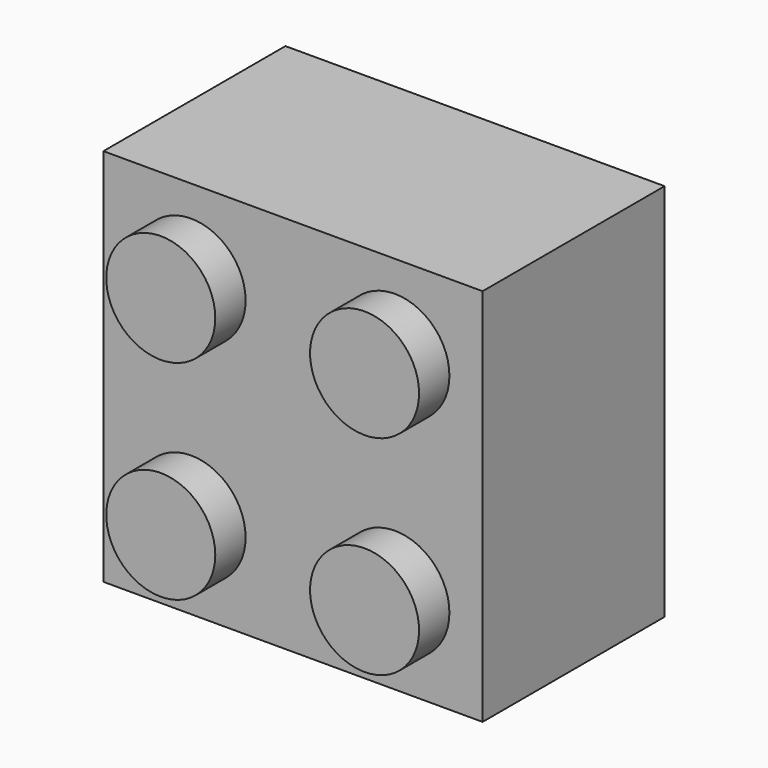
from build123d import *

# Parameters (mm, degrees)
F0_W     = 16
F0_H     = 16
F0_W_2   = 12.8
F0_H_2   = 12.8
F1_DEPTH = 9.6
F2_DEPTH = 8.1
F3_R     = 1.6
F4_DEPTH = 1.6
F5_R     = 2.3
F6_DEPTH = 1.6
F7_R     = 3.2
F7_R_2   = 2.4
F8_DEPTH = 9.6


with BuildPart() as f1:
    # F0 (on Front) → F1 (new body)
    with BuildSketch(Plane.XZ):
        Rectangle(F0_W, F0_H)
        Rectangle(F0_W_2, F0_H_2, mode=Mode.SUBTRACT)
        Rectangle(F0_W_2, F0_H_2)
    extrude(amount=F1_DEPTH)

    # F0 (on Front) → F2 (cut)
    with BuildSketch(Plane.XZ):
        Rectangle(F0_W_2, F0_H_2)
    extrude(amount=F2_DEPTH, mode=Mode.SUBTRACT)

    # F3 (on face) → F4 (cut)
    with BuildSketch(Plane.XZ.offset(9.6)):
        with Locations((-4.3, 4.4)):
            Circle(F3_R)
        with Locations((-4.3, -4.4)):
            Circle(F3_R)
        with Locations((4.3, 4.4)):
            Circle(F3_R)
        with Locations((4.3, -4.4)):
            Circle(F3_R)
    extrude(amount=-F4_DEPTH, mode=Mode.SUBTRACT)

    # F5 (on face) → F6 (join)
    with BuildSketch(Plane.XZ.offset(9.6)):
        with Locations((-4.3, 4.4)):
            Circle(F5_R)
        with Locations((-4.3, -4.4)):
            Circle(F5_R)
        with Locations((4.3, 4.4)):
            Circle(F5_R)
        with Locations((4.3, -4.4)):
            Circle(F5_R)
    extrude(amount=F6_DEPTH)

    # F7 (on face) → F8 (join)
    with BuildSketch(Plane.XZ.offset(9.6)):
        with Locations((-0.2, 0.2)):
            Circle(F7_R)
        with Locations((-0.2, 0.2)):
            Circle(F7_R_2, mode=Mode.SUBTRACT)
    extrude(amount=-F8_DEPTH)


solid = f1.part
